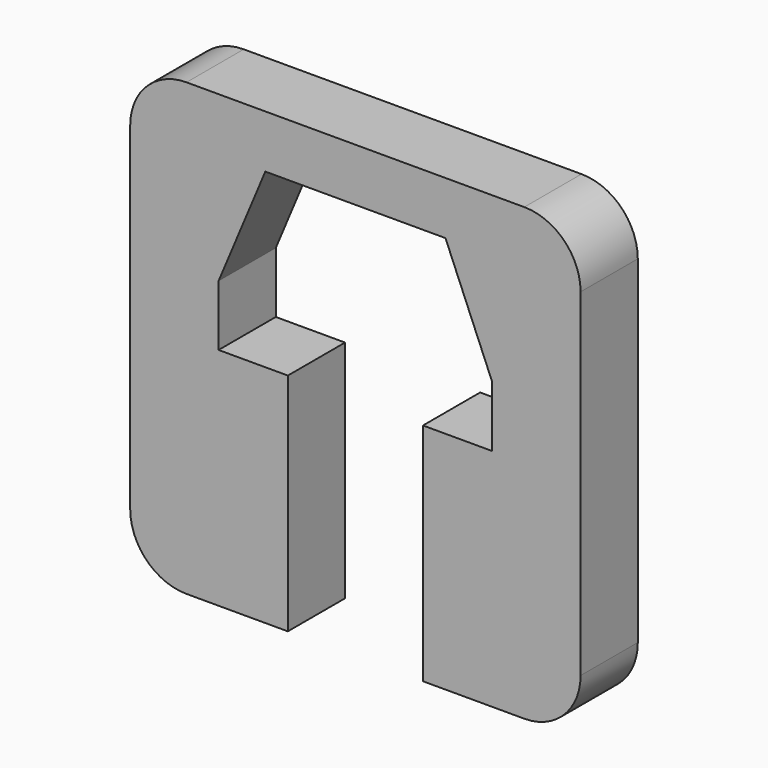
from build123d import *

# Parameters (mm, degrees)
F1_DEPTH = 6.35


with BuildPart() as f1:
    # F0 (on Front) → F1 (new body)
    with BuildSketch(Plane.XZ):
        with BuildLine():
            Line((-12.15, -24.6), (-8, -14.7))
            Line((-8, -14.7), (8, -14.7))
            Line((8, -14.7), (12.15, -24.6))
            Line((12.15, -24.6), (12.15, -30))
            Line((12.15, -30), (6, -30))
            Line((6, -30), (6, -50))
            Line((6, -50), (15, -50))
            ThreePointArc((15, -50), (18.535534, -48.535534), (20, -45))
            Line((20, -45), (20, -15))
            ThreePointArc((20, -15), (18.535534, -11.464466), (15, -10))
            Line((15, -10), (-15, -10))
            ThreePointArc((-15, -10), (-18.535534, -11.464466), (-20, -15))
            Line((-20, -15), (-20, -45))
            ThreePointArc((-20, -45), (-18.535534, -48.535534), (-15, -50))
            Line((-15, -50), (-6, -50))
            Line((-6, -50), (-6, -30))
            Line((-6, -30), (-12.15, -30))
            Line((-12.15, -30), (-12.15, -24.6))
        make_face()
    extrude(amount=F1_DEPTH)


solid = f1.part
